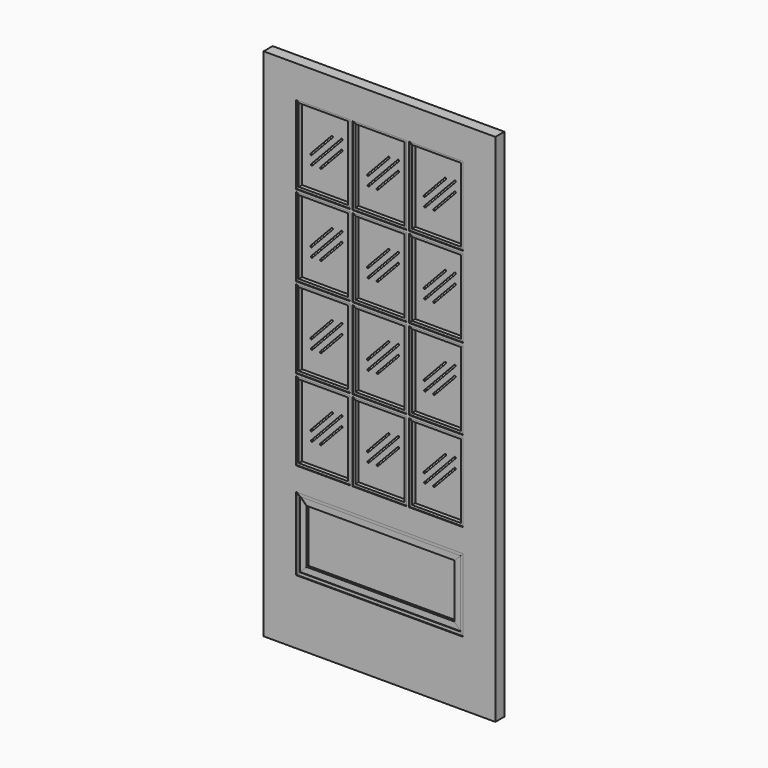
from build123d import *

# Parameters (mm, degrees)
F1_W           = 914.4
F1_H           = 2032
F1_W_2         = 213.7833333333
F1_H_2         = 310.35625
F1_W_3         = 660.4
F1_H_3         = 288.925
F2_DEPTH       = 22.225
F2_DEPTH_BACK  = 22.225
F4_DEPTH       = 20.0025
F4_DEPTH_BACK  = 20.0152
F6_DEPTH       = 19.05
F6_DEPTH_BACK  = 19.05
F7_W           = 194.7333333333
F7_H           = 291.30625
F8_DEPTH       = 3.175
F8_DEPTH_BACK  = 3.175
F10_DEPTH      = 25.4
F10_DEPTH_BACK = 31.75
F12_DEPTH      = 20.0152
F12_DEPTH_BACK = 20.0152
F14_DEPTH      = 19.05
F14_DEPTH_BACK = 19.05
F16_DEPTH      = 17.78
F16_DEPTH_BACK = 17.78
F18_DEPTH      = 16.51
F18_DEPTH_BACK = 16.51
F19_W          = 584.2
F19_H          = 212.725
F20_DEPTH      = 6.35
F20_DEPTH_BACK = 6.35


with BuildPart() as f2:
    # F1 (on Front) → F2 (new body, two sides)
    with BuildSketch(Plane.XZ) as f2_sk:
        with Locations((457.2, 1016)):
            Rectangle(F1_W, F1_H)
        with Locations((233.8916666667, 790.178125)):
            Rectangle(F1_W_2, F1_H_2, mode=Mode.SUBTRACT)
        with Locations((457.2, 398.4625)):
            Rectangle(F1_W_3, F1_H_3, mode=Mode.SUBTRACT)
        with Locations((457.2, 790.178125)):
            Rectangle(F1_W_2, F1_H_2, mode=Mode.SUBTRACT)
        with Locations((680.5083333333, 790.178125)):
            Rectangle(F1_W_2, F1_H_2, mode=Mode.SUBTRACT)
        with Locations((233.8916666667, 1110.059375)):
            Rectangle(F1_W_2, F1_H_2, mode=Mode.SUBTRACT)
        with Locations((233.8916666667, 1429.940625)):
            Rectangle(F1_W_2, F1_H_2, mode=Mode.SUBTRACT)
        with Locations((233.8916666667, 1749.821875)):
            Rectangle(F1_W_2, F1_H_2, mode=Mode.SUBTRACT)
        with Locations((457.2, 1110.059375)):
            Rectangle(F1_W_2, F1_H_2, mode=Mode.SUBTRACT)
        with Locations((680.5083333333, 1110.059375)):
            Rectangle(F1_W_2, F1_H_2, mode=Mode.SUBTRACT)
        with Locations((457.2, 1429.940625)):
            Rectangle(F1_W_2, F1_H_2, mode=Mode.SUBTRACT)
        with Locations((680.5083333333, 1429.940625)):
            Rectangle(F1_W_2, F1_H_2, mode=Mode.SUBTRACT)
        with Locations((457.2, 1749.821875)):
            Rectangle(F1_W_2, F1_H_2, mode=Mode.SUBTRACT)
        with Locations((680.5083333333, 1749.821875)):
            Rectangle(F1_W_2, F1_H_2, mode=Mode.SUBTRACT)
    extrude(amount=F2_DEPTH)
    extrude(f2_sk.sketch, amount=-F2_DEPTH_BACK)

    # F3 (on Front) → F4 (join, two sides)
    with BuildSketch(Plane.XZ) as f4_sk:
        Polygon((777.875, 1604.16875), (787.4, 1594.64375), (787.4, 1905), (777.875, 1895.475), align=None)
        Polygon((573.6166666667, 1594.64375), (583.1416666667, 1604.16875), (583.1416666667, 1895.475), (573.6166666667, 1905), align=None)
        Polygon((554.5666666667, 1604.16875), (564.0916666667, 1594.64375), (564.0916666667, 1905), (554.5666666667, 1895.475), align=None)
        Polygon((350.3083333333, 1594.64375), (359.8333333333, 1604.16875), (359.8333333333, 1895.475), (350.3083333333, 1905), align=None)
        Polygon((340.7833333333, 1905), (331.2583333333, 1895.475), (331.2583333333, 1604.16875), (340.7833333333, 1594.64375), align=None)
        Polygon((136.525, 1604.16875), (136.525, 1895.475), (127, 1905), (127, 1594.64375), align=None)
        Polygon((777.875, 1284.2875), (787.4, 1274.7625), (787.4, 1585.11875), (777.875, 1575.59375), align=None)
        Polygon((583.1416666667, 1284.2875), (583.1416666667, 1575.59375), (573.6166666667, 1585.11875), (573.6166666667, 1274.7625), align=None)
        Polygon((554.5666666667, 1575.59375), (554.5666666667, 1284.2875), (564.0916666667, 1274.7625), (564.0916666667, 1585.11875), align=None)
        Polygon((359.8333333333, 1284.2875), (359.8333333333, 1575.59375), (350.3083333333, 1585.11875), (350.3083333333, 1274.7625), align=None)
        Polygon((331.2583333333, 1575.59375), (331.2583333333, 1284.2875), (340.7833333333, 1274.7625), (340.7833333333, 1585.11875), align=None)
        Polygon((136.525, 1284.2875), (136.525, 1575.59375), (127, 1585.11875), (127, 1274.7625), align=None)
        Polygon((777.875, 1255.7125), (777.875, 964.40625), (787.4, 954.88125), (787.4, 1265.2375), align=None)
        Polygon((583.1416666667, 964.40625), (583.1416666667, 1255.7125), (573.6166666667, 1265.2375), (573.6166666667, 954.88125), align=None)
        Polygon((554.5666666667, 1255.7125), (554.5666666667, 964.40625), (564.0916666667, 954.88125), (564.0916666667, 1265.2375), align=None)
        Polygon((359.8333333333, 964.40625), (359.8333333333, 1255.7125), (350.3083333333, 1265.2375), (350.3083333333, 954.88125), align=None)
        Polygon((340.7833333333, 954.88125), (340.7833333333, 1265.2375), (331.2583333333, 1255.7125), (331.2583333333, 964.40625), align=None)
        Polygon((136.525, 1255.7125), (127, 1265.2375), (127, 954.88125), (136.525, 964.40625), align=None)
        Polygon((777.875, 935.83125), (777.875, 644.525), (787.4, 635), (787.4, 945.35625), align=None)
        Polygon((583.1416666667, 935.83125), (573.6166666667, 945.35625), (573.6166666667, 635), (583.1416666667, 644.525), align=None)
        Polygon((564.0916666667, 635), (564.0916666667, 945.35625), (554.5666666667, 935.83125), (554.5666666667, 644.525), align=None)
        Polygon((359.8333333333, 935.83125), (350.3083333333, 945.35625), (350.3083333333, 635), (359.8333333333, 644.525), align=None)
        Polygon((340.7833333333, 635), (340.7833333333, 945.35625), (331.2583333333, 935.83125), (331.2583333333, 644.525), align=None)
        Polygon((136.525, 935.83125), (127, 945.35625), (127, 635), (136.525, 644.525), align=None)
    extrude(amount=F4_DEPTH)
    extrude(f4_sk.sketch, amount=-F4_DEPTH_BACK)

    # F5 (on Front) → F6 (join, two sides)
    with BuildSketch(Plane.XZ) as f6_sk:
        Polygon((787.4, 1905), (573.6166666667, 1905), (583.1416666667, 1895.475), (777.875, 1895.475), align=None)
        Polygon((564.0916666667, 1905), (350.3083333333, 1905), (359.8333333333, 1895.475), (554.5666666667, 1895.475), align=None)
        Polygon((340.7833333333, 1905), (127, 1905), (136.525, 1895.475), (331.2583333333, 1895.475), align=None)
        Polygon((787.4, 1594.64375), (777.875, 1604.16875), (583.1416666667, 1604.16875), (573.6166666667, 1594.64375), align=None)
        Polygon((564.0916666667, 1594.64375), (554.5666666667, 1604.16875), (359.8333333333, 1604.16875), (350.3083333333, 1594.64375), align=None)
        Polygon((340.7833333333, 1594.64375), (331.2583333333, 1604.16875), (136.525, 1604.16875), (127, 1594.64375), align=None)
        Polygon((787.4, 1585.11875), (573.6166666667, 1585.11875), (583.1416666667, 1575.59375), (777.875, 1575.59375), align=None)
        Polygon((564.0916666667, 1585.11875), (350.3083333333, 1585.11875), (359.8333333333, 1575.59375), (554.5666666667, 1575.59375), align=None)
        Polygon((340.7833333333, 1585.11875), (127, 1585.11875), (136.525, 1575.59375), (331.2583333333, 1575.59375), align=None)
        Polygon((340.7833333333, 1274.7625), (331.2583333333, 1284.2875), (136.525, 1284.2875), (127, 1274.7625), align=None)
        Polygon((340.7833333333, 1265.2375), (127, 1265.2375), (136.525, 1255.7125), (331.2583333333, 1255.7125), align=None)
        Polygon((564.0916666667, 1265.2375), (350.3083333333, 1265.2375), (359.8333333333, 1255.7125), (554.5666666667, 1255.7125), align=None)
        Polygon((564.0916666667, 1274.7625), (554.5666666667, 1284.2875), (359.8333333333, 1284.2875), (350.3083333333, 1274.7625), align=None)
        Polygon((787.4, 1274.7625), (777.875, 1284.2875), (583.1416666667, 1284.2875), (573.6166666667, 1274.7625), align=None)
        Polygon((787.4, 1265.2375), (573.6166666667, 1265.2375), (583.1416666667, 1255.7125), (777.875, 1255.7125), align=None)
        Polygon((787.4, 954.88125), (777.875, 964.40625), (583.1416666667, 964.40625), (573.6166666667, 954.88125), align=None)
        Polygon((583.1416666667, 935.83125), (777.875, 935.83125), (787.4, 945.35625), (573.6166666667, 945.35625), align=None)
        Polygon((564.0916666667, 945.35625), (350.3083333333, 945.35625), (359.8333333333, 935.83125), (554.5666666667, 935.83125), align=None)
        Polygon((564.0916666667, 954.88125), (554.5666666667, 964.40625), (359.8333333333, 964.40625), (350.3083333333, 954.88125), align=None)
        Polygon((340.7833333333, 945.35625), (127, 945.35625), (136.525, 935.83125), (331.2583333333, 935.83125), align=None)
        Polygon((340.7833333333, 954.88125), (331.2583333333, 964.40625), (136.525, 964.40625), (127, 954.88125), align=None)
        Polygon((583.1416666667, 644.525), (573.6166666667, 635), (787.4, 635), (777.875, 644.525), align=None)
        Polygon((564.0916666667, 635), (554.5666666667, 644.525), (359.8333333333, 644.525), (350.3083333333, 635), align=None)
        Polygon((340.7833333333, 635), (331.2583333333, 644.525), (136.525, 644.525), (127, 635), align=None)
    extrude(amount=F6_DEPTH)
    extrude(f6_sk.sketch, amount=-F6_DEPTH_BACK)

    # F7 (on Front) → F8 (join, two sides)
    with BuildSketch(Plane.XZ) as f8_sk:
        with Locations((680.5083333333, 1749.821875)):
            Rectangle(F7_W, F7_H)
        with Locations((457.2, 1749.821875)):
            Rectangle(F7_W, F7_H)
        with Locations((233.8916666667, 1749.821875)):
            Rectangle(F7_W, F7_H)
        with Locations((680.5083333333, 1429.940625)):
            Rectangle(F7_W, F7_H)
        with Locations((457.2, 1429.940625)):
            Rectangle(F7_W, F7_H)
        with Locations((233.8916666667, 1429.940625)):
            Rectangle(F7_W, F7_H)
        with Locations((680.5083333333, 1110.059375)):
            Rectangle(F7_W, F7_H)
        with Locations((457.2, 1110.059375)):
            Rectangle(F7_W, F7_H)
        with Locations((233.8916666667, 1110.059375)):
            Rectangle(F7_W, F7_H)
        with Locations((233.8916666667, 790.178125)):
            Rectangle(F7_W, F7_H)
        with Locations((457.2, 790.178125)):
            Rectangle(F7_W, F7_H)
        with Locations((680.5083333333, 790.178125)):
            Rectangle(F7_W, F7_H)
    extrude(amount=F8_DEPTH)
    extrude(f8_sk.sketch, amount=-F8_DEPTH_BACK)

    # F9 (on Front) → F10 (cut, two sides)
    with BuildSketch(Plane.XZ) as f10_sk:
        with BuildLine():
            ThreePointArc((704.0641367095, 1808.3647625873), (703.9234342588, 1812.8526855836), (699.4355112625, 1812.7119831329))
            Line((699.4355112625, 1812.7119831329), (616.6858257279, 1724.6057331329))
            ThreePointArc((616.6858257279, 1724.6057331329), (616.8265281786, 1720.1178101366), (621.3144511749, 1720.2585125873))
            Line((621.3144511749, 1720.2585125873), (704.0641367095, 1808.3647625873))
        make_face()
        with BuildLine():
            ThreePointArc((518.7809793901, 1772.6513897272), (518.6402769395, 1777.1393127235), (514.1523539432, 1776.9986102728))
            Line((514.1523539432, 1776.9986102728), (431.4026684086, 1688.8923602728))
            ThreePointArc((431.4026684086, 1688.8923602728), (431.5433708593, 1684.4044372765), (436.0312938556, 1684.5451397272))
            Line((436.0312938556, 1684.5451397272), (518.7809793901, 1772.6513897272))
        make_face()
        with BuildLine():
            ThreePointArc((395.6190206099, 1688.8923602728), (395.7597230606, 1684.4044372765), (400.2476460568, 1684.5451397272))
            Line((400.2476460568, 1684.5451397272), (518.7809793901, 1810.7513897272))
            ThreePointArc((518.7809793901, 1810.7513897272), (518.6402769395, 1815.2393127235), (514.1523539432, 1815.0986102728))
            Line((514.1523539432, 1815.0986102728), (395.6190206099, 1688.8923602728))
        make_face()
        with BuildLine():
            ThreePointArc((518.7809793901, 813.0076397272), (518.6402769395, 817.4955627235), (514.1523539432, 817.3548602728))
            Line((514.1523539432, 817.3548602728), (431.4026684086, 729.2486102728))
            ThreePointArc((431.4026684086, 729.2486102728), (431.5433708593, 724.7606872765), (436.0312938556, 724.9013897272))
            Line((436.0312938556, 724.9013897272), (518.7809793901, 813.0076397272))
        make_face()
        with BuildLine():
            ThreePointArc((742.0893127235, 1772.6513897272), (741.9486102728, 1777.1393127235), (737.4606872765, 1776.9986102728))
            Line((737.4606872765, 1776.9986102728), (654.7110017419, 1688.8923602728))
            ThreePointArc((654.7110017419, 1688.8923602728), (654.8517041926, 1684.4044372765), (659.3396271889, 1684.5451397272))
            Line((659.3396271889, 1684.5451397272), (742.0893127235, 1772.6513897272))
        make_face()
        with BuildLine():
            ThreePointArc((704.0641367095, 848.7210125873), (703.9234342588, 853.2089355836), (699.4355112625, 853.0682331329))
            Line((699.4355112625, 853.0682331329), (616.6858257279, 764.9619831329))
            ThreePointArc((616.6858257279, 764.9619831329), (616.8265281786, 760.4740601366), (621.3144511749, 760.6147625873))
            Line((621.3144511749, 760.6147625873), (704.0641367095, 848.7210125873))
        make_face()
        with BuildLine():
            ThreePointArc((618.9273539432, 1688.8923602728), (619.0680563939, 1684.4044372765), (623.5559793901, 1684.5451397272))
            Line((623.5559793901, 1684.5451397272), (742.0893127235, 1810.7513897272))
            ThreePointArc((742.0893127235, 1810.7513897272), (741.9486102728, 1815.2393127235), (737.4606872765, 1815.0986102728))
            Line((737.4606872765, 1815.0986102728), (618.9273539432, 1688.8923602728))
        make_face()
        with BuildLine():
            ThreePointArc((172.3106872765, 1369.0111102728), (172.4513897272, 1364.5231872765), (176.9393127235, 1364.6638897272))
            Line((176.9393127235, 1364.6638897272), (295.4726460568, 1490.8701397272))
            ThreePointArc((295.4726460568, 1490.8701397272), (295.3319436061, 1495.3580627235), (290.8440206099, 1495.2173602728))
            Line((290.8440206099, 1495.2173602728), (172.3106872765, 1369.0111102728))
        make_face()
        with BuildLine():
            ThreePointArc((480.7558033762, 1808.3647625873), (480.6151009255, 1812.8526855836), (476.1271779292, 1812.7119831329))
            Line((476.1271779292, 1812.7119831329), (393.3774923946, 1724.6057331329))
            ThreePointArc((393.3774923946, 1724.6057331329), (393.5181948453, 1720.1178101366), (398.0061178416, 1720.2585125873))
            Line((398.0061178416, 1720.2585125873), (480.7558033762, 1808.3647625873))
        make_face()
        with BuildLine():
            ThreePointArc((295.4726460568, 1772.6513897272), (295.3319436061, 1777.1393127235), (290.8440206099, 1776.9986102728))
            Line((290.8440206099, 1776.9986102728), (208.0943350753, 1688.8923602728))
            ThreePointArc((208.0943350753, 1688.8923602728), (208.235037526, 1684.4044372765), (212.7229605222, 1684.5451397272))
            Line((212.7229605222, 1684.5451397272), (295.4726460568, 1772.6513897272))
        make_face()
        with BuildLine():
            ThreePointArc((480.7558033762, 848.7210125873), (480.6151009255, 853.2089355836), (476.1271779292, 853.0682331329))
            Line((476.1271779292, 853.0682331329), (393.3774923946, 764.9619831329))
            ThreePointArc((393.3774923946, 764.9619831329), (393.5181948453, 760.4740601366), (398.0061178416, 760.6147625873))
            Line((398.0061178416, 760.6147625873), (480.7558033762, 848.7210125873))
        make_face()
        with BuildLine():
            ThreePointArc((295.4726460568, 1452.7701397272), (295.3319436061, 1457.2580627235), (290.8440206099, 1457.1173602728))
            Line((290.8440206099, 1457.1173602728), (208.0943350753, 1369.0111102728))
            ThreePointArc((208.0943350753, 1369.0111102728), (208.235037526, 1364.5231872765), (212.7229605222, 1364.6638897272))
            Line((212.7229605222, 1364.6638897272), (295.4726460568, 1452.7701397272))
        make_face()
        with BuildLine():
            ThreePointArc((172.3106872765, 1688.8923602728), (172.4513897272, 1684.4044372765), (176.9393127235, 1684.5451397272))
            Line((176.9393127235, 1684.5451397272), (295.4726460568, 1810.7513897272))
            ThreePointArc((295.4726460568, 1810.7513897272), (295.3319436061, 1815.2393127235), (290.8440206099, 1815.0986102728))
            Line((290.8440206099, 1815.0986102728), (172.3106872765, 1688.8923602728))
        make_face()
        with BuildLine():
            ThreePointArc((395.6190206099, 729.2486102728), (395.7597230606, 724.7606872765), (400.2476460568, 724.9013897272))
            Line((400.2476460568, 724.9013897272), (518.7809793901, 851.1076397272))
            ThreePointArc((518.7809793901, 851.1076397272), (518.6402769395, 855.5955627235), (514.1523539432, 855.4548602728))
            Line((514.1523539432, 855.4548602728), (395.6190206099, 729.2486102728))
        make_face()
        with BuildLine():
            ThreePointArc((480.7558033762, 1488.4835125873), (480.6151009255, 1492.9714355836), (476.1271779292, 1492.8307331329))
            Line((476.1271779292, 1492.8307331329), (393.3774923946, 1404.7244831329))
            ThreePointArc((393.3774923946, 1404.7244831329), (393.5181948453, 1400.2365601366), (398.0061178416, 1400.3772625873))
            Line((398.0061178416, 1400.3772625873), (480.7558033762, 1488.4835125873))
        make_face()
        with BuildLine():
            ThreePointArc((518.7809793901, 1132.8888897272), (518.6402769395, 1137.3768127235), (514.1523539432, 1137.2361102728))
            Line((514.1523539432, 1137.2361102728), (431.4026684086, 1049.1298602728))
            ThreePointArc((431.4026684086, 1049.1298602728), (431.5433708593, 1044.6419372765), (436.0312938556, 1044.7826397272))
            Line((436.0312938556, 1044.7826397272), (518.7809793901, 1132.8888897272))
        make_face()
        with BuildLine():
            ThreePointArc((395.6190206099, 1049.1298602728), (395.7597230606, 1044.6419372765), (400.2476460568, 1044.7826397272))
            Line((400.2476460568, 1044.7826397272), (518.7809793901, 1170.9888897272))
            ThreePointArc((518.7809793901, 1170.9888897272), (518.6402769395, 1175.4768127235), (514.1523539432, 1175.3361102728))
            Line((514.1523539432, 1175.3361102728), (395.6190206099, 1049.1298602728))
        make_face()
        with BuildLine():
            ThreePointArc((704.0641367095, 1168.6022625873), (703.9234342588, 1173.0901855836), (699.4355112625, 1172.9494831329))
            Line((699.4355112625, 1172.9494831329), (616.6858257279, 1084.8432331329))
            ThreePointArc((616.6858257279, 1084.8432331329), (616.8265281786, 1080.3553101366), (621.3144511749, 1080.4960125873))
            Line((621.3144511749, 1080.4960125873), (704.0641367095, 1168.6022625873))
        make_face()
        with BuildLine():
            ThreePointArc((257.4474700428, 1808.3647625873), (257.3067675921, 1812.8526855836), (252.8188445959, 1812.7119831329))
            Line((252.8188445959, 1812.7119831329), (170.0691590613, 1724.6057331329))
            ThreePointArc((170.0691590613, 1724.6057331329), (170.209861512, 1720.1178101366), (174.6977845082, 1720.2585125873))
            Line((174.6977845082, 1720.2585125873), (257.4474700428, 1808.3647625873))
        make_face()
        with BuildLine():
            ThreePointArc((172.3106872765, 729.2486102728), (172.4513897272, 724.7606872765), (176.9393127235, 724.9013897272))
            Line((176.9393127235, 724.9013897272), (295.4726460568, 851.1076397272))
            ThreePointArc((295.4726460568, 851.1076397272), (295.3319436061, 855.5955627235), (290.8440206099, 855.4548602728))
            Line((290.8440206099, 855.4548602728), (172.3106872765, 729.2486102728))
        make_face()
        with BuildLine():
            ThreePointArc((295.4726460568, 1132.8888897272), (295.3319436061, 1137.3768127235), (290.8440206099, 1137.2361102728))
            Line((290.8440206099, 1137.2361102728), (208.0943350753, 1049.1298602728))
            ThreePointArc((208.0943350753, 1049.1298602728), (208.235037526, 1044.6419372765), (212.7229605222, 1044.7826397272))
            Line((212.7229605222, 1044.7826397272), (295.4726460568, 1132.8888897272))
        make_face()
        with BuildLine():
            ThreePointArc((395.6190206099, 1369.0111102728), (395.7597230606, 1364.5231872765), (400.2476460568, 1364.6638897272))
            Line((400.2476460568, 1364.6638897272), (518.7809793901, 1490.8701397272))
            ThreePointArc((518.7809793901, 1490.8701397272), (518.6402769395, 1495.3580627235), (514.1523539432, 1495.2173602728))
            Line((514.1523539432, 1495.2173602728), (395.6190206099, 1369.0111102728))
        make_face()
        with BuildLine():
            ThreePointArc((742.0893127235, 1452.7701397272), (741.9486102728, 1457.2580627235), (737.4606872765, 1457.1173602728))
            Line((737.4606872765, 1457.1173602728), (654.7110017419, 1369.0111102728))
            ThreePointArc((654.7110017419, 1369.0111102728), (654.8517041926, 1364.5231872765), (659.3396271889, 1364.6638897272))
            Line((659.3396271889, 1364.6638897272), (742.0893127235, 1452.7701397272))
        make_face()
        with BuildLine():
            ThreePointArc((742.0893127235, 813.0076397272), (741.9486102728, 817.4955627235), (737.4606872765, 817.3548602728))
            Line((737.4606872765, 817.3548602728), (654.7110017419, 729.2486102728))
            ThreePointArc((654.7110017419, 729.2486102728), (654.8517041926, 724.7606872765), (659.3396271889, 724.9013897272))
            Line((659.3396271889, 724.9013897272), (742.0893127235, 813.0076397272))
        make_face()
        with BuildLine():
            ThreePointArc((742.0893127235, 1132.8888897272), (741.9486102728, 1137.3768127235), (737.4606872765, 1137.2361102728))
            Line((737.4606872765, 1137.2361102728), (654.7110017419, 1049.1298602728))
            ThreePointArc((654.7110017419, 1049.1298602728), (654.8517041926, 1044.6419372765), (659.3396271889, 1044.7826397272))
            Line((659.3396271889, 1044.7826397272), (742.0893127235, 1132.8888897272))
        make_face()
        with BuildLine():
            ThreePointArc((618.9273539432, 1369.0111102728), (619.0680563939, 1364.5231872765), (623.5559793901, 1364.6638897272))
            Line((623.5559793901, 1364.6638897272), (742.0893127235, 1490.8701397272))
            ThreePointArc((742.0893127235, 1490.8701397272), (741.9486102728, 1495.3580627235), (737.4606872765, 1495.2173602728))
            Line((737.4606872765, 1495.2173602728), (618.9273539432, 1369.0111102728))
        make_face()
        with BuildLine():
            ThreePointArc((704.0641367095, 1488.4835125873), (703.9234342588, 1492.9714355836), (699.4355112625, 1492.8307331329))
            Line((699.4355112625, 1492.8307331329), (616.6858257279, 1404.7244831329))
            ThreePointArc((616.6858257279, 1404.7244831329), (616.8265281786, 1400.2365601366), (621.3144511749, 1400.3772625873))
            Line((621.3144511749, 1400.3772625873), (704.0641367095, 1488.4835125873))
        make_face()
        with BuildLine():
            ThreePointArc((257.4474700428, 1168.6022625873), (257.3067675921, 1173.0901855836), (252.8188445959, 1172.9494831329))
            Line((252.8188445959, 1172.9494831329), (170.0691590613, 1084.8432331329))
            ThreePointArc((170.0691590613, 1084.8432331329), (170.209861512, 1080.3553101366), (174.6977845082, 1080.4960125873))
            Line((174.6977845082, 1080.4960125873), (257.4474700428, 1168.6022625873))
        make_face()
        with BuildLine():
            ThreePointArc((618.9273539432, 729.2486102728), (619.0680563939, 724.7606872765), (623.5559793901, 724.9013897272))
            Line((623.5559793901, 724.9013897272), (742.0893127235, 851.1076397272))
            ThreePointArc((742.0893127235, 851.1076397272), (741.9486102728, 855.5955627235), (737.4606872765, 855.4548602728))
            Line((737.4606872765, 855.4548602728), (618.9273539432, 729.2486102728))
        make_face()
        with BuildLine():
            ThreePointArc((518.7809793901, 1452.7701397272), (518.6402769395, 1457.2580627235), (514.1523539432, 1457.1173602728))
            Line((514.1523539432, 1457.1173602728), (431.4026684086, 1369.0111102728))
            ThreePointArc((431.4026684086, 1369.0111102728), (431.5433708593, 1364.5231872765), (436.0312938556, 1364.6638897272))
            Line((436.0312938556, 1364.6638897272), (518.7809793901, 1452.7701397272))
        make_face()
        with BuildLine():
            ThreePointArc((257.4474700428, 1488.4835125873), (257.3067675921, 1492.9714355836), (252.8188445959, 1492.8307331329))
            Line((252.8188445959, 1492.8307331329), (170.0691590613, 1404.7244831329))
            ThreePointArc((170.0691590613, 1404.7244831329), (170.209861512, 1400.2365601366), (174.6977845082, 1400.3772625873))
            Line((174.6977845082, 1400.3772625873), (257.4474700428, 1488.4835125873))
        make_face()
        with BuildLine():
            ThreePointArc((295.4726460568, 813.0076397272), (295.3319436061, 817.4955627235), (290.8440206099, 817.3548602728))
            Line((290.8440206099, 817.3548602728), (208.0943350753, 729.2486102728))
            ThreePointArc((208.0943350753, 729.2486102728), (208.235037526, 724.7606872765), (212.7229605222, 724.9013897272))
            Line((212.7229605222, 724.9013897272), (295.4726460568, 813.0076397272))
        make_face()
        with BuildLine():
            ThreePointArc((618.9273539432, 1049.1298602728), (619.0680563939, 1044.6419372765), (623.5559793901, 1044.7826397272))
            Line((623.5559793901, 1044.7826397272), (742.0893127235, 1170.9888897272))
            ThreePointArc((742.0893127235, 1170.9888897272), (741.9486102728, 1175.4768127235), (737.4606872765, 1175.3361102728))
            Line((737.4606872765, 1175.3361102728), (618.9273539432, 1049.1298602728))
        make_face()
        with BuildLine():
            ThreePointArc((257.4474700428, 848.7210125873), (257.3067675921, 853.2089355836), (252.8188445959, 853.0682331329))
            Line((252.8188445959, 853.0682331329), (170.0691590613, 764.9619831329))
            ThreePointArc((170.0691590613, 764.9619831329), (170.209861512, 760.4740601366), (174.6977845082, 760.6147625873))
            Line((174.6977845082, 760.6147625873), (257.4474700428, 848.7210125873))
        make_face()
        with BuildLine():
            ThreePointArc((172.3106872765, 1049.1298602728), (172.4513897272, 1044.6419372765), (176.9393127235, 1044.7826397272))
            Line((176.9393127235, 1044.7826397272), (295.4726460568, 1170.9888897272))
            ThreePointArc((295.4726460568, 1170.9888897272), (295.3319436061, 1175.4768127235), (290.8440206099, 1175.3361102728))
            Line((290.8440206099, 1175.3361102728), (172.3106872765, 1049.1298602728))
        make_face()
        with BuildLine():
            ThreePointArc((480.7558033762, 1168.6022625873), (480.6151009255, 1173.0901855836), (476.1271779292, 1172.9494831329))
            Line((476.1271779292, 1172.9494831329), (393.3774923946, 1084.8432331329))
            ThreePointArc((393.3774923946, 1084.8432331329), (393.5181948453, 1080.3553101366), (398.0061178416, 1080.4960125873))
            Line((398.0061178416, 1080.4960125873), (480.7558033762, 1168.6022625873))
        make_face()
    extrude(amount=-F10_DEPTH, mode=Mode.SUBTRACT)
    extrude(f10_sk.sketch, amount=F10_DEPTH_BACK, mode=Mode.SUBTRACT)

    # F11 (on Front) → F12 (join, two sides)
    with BuildSketch(Plane.XZ) as f12_sk:
        Polygon((774.7, 266.7), (787.4, 254), (787.4, 542.925), (774.7, 530.225), align=None)
        Polygon((139.7, 530.225), (127, 542.925), (127, 254), (139.7, 266.7), align=None)
    extrude(amount=F12_DEPTH)
    extrude(f12_sk.sketch, amount=-F12_DEPTH_BACK)

    # F13 (on Front) → F14 (join, two sides)
    with BuildSketch(Plane.XZ) as f14_sk:
        Polygon((774.7, 530.225), (787.4, 542.925), (127, 542.925), (139.7, 530.225), align=None)
        Polygon((787.4, 254), (774.7, 266.7), (139.7, 266.7), (127, 254), align=None)
    extrude(amount=F14_DEPTH)
    extrude(f14_sk.sketch, amount=-F14_DEPTH_BACK)

    # F15 (on Front) → F16 (join, two sides)
    with BuildSketch(Plane.XZ) as f16_sk:
        Polygon((749.3, 292.1), (774.7, 266.7), (774.7, 530.225), (749.3, 504.825), align=None)
        Polygon((165.1, 504.825), (139.7, 530.225), (139.7, 266.7), (165.1, 292.1), align=None)
    extrude(amount=F16_DEPTH)
    extrude(f16_sk.sketch, amount=-F16_DEPTH_BACK)

    # F17 (on Front) → F18 (join, two sides)
    with BuildSketch(Plane.XZ) as f18_sk:
        Polygon((139.7, 530.225), (165.1, 504.825), (749.3, 504.825), (774.7, 530.225), align=None)
        Polygon((139.7, 266.7), (774.7, 266.7), (749.3, 292.1), (165.1, 292.1), align=None)
    extrude(amount=F18_DEPTH)
    extrude(f18_sk.sketch, amount=-F18_DEPTH_BACK)

    # F19 (on Front) → F20 (join, two sides)
    with BuildSketch(Plane.XZ) as f20_sk:
        with Locations((457.2, 398.4625)):
            Rectangle(F19_W, F19_H)
    extrude(amount=F20_DEPTH)
    extrude(f20_sk.sketch, amount=-F20_DEPTH_BACK)


solid = f2.part
